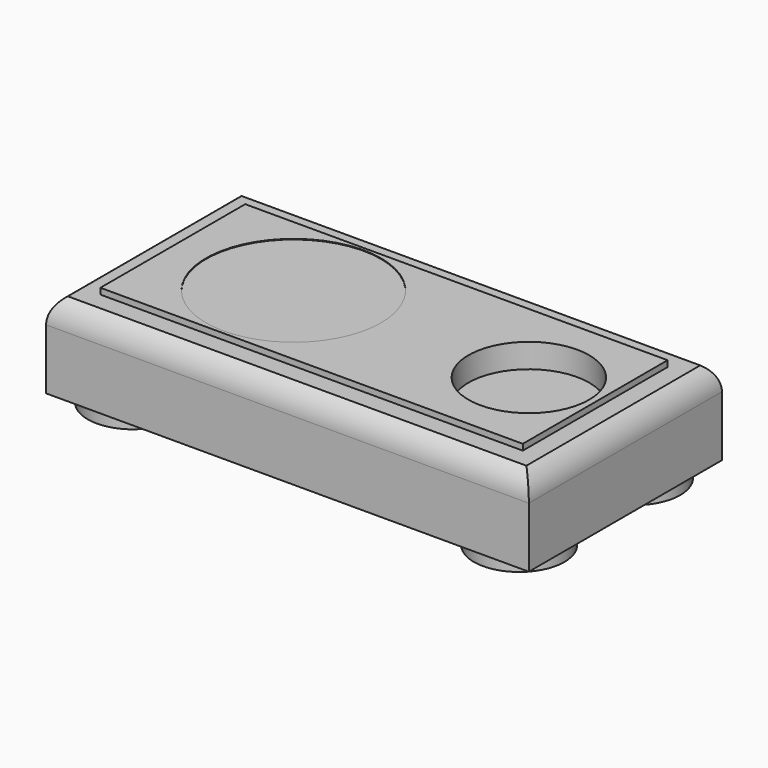
from build123d import *

# Parameters (mm, degrees)
F0_W      = 203.2
F0_H      = 101.6
F1_DEPTH  = 38.1
F2_R      = 19.05
F3_DEPTH  = 5.08
F4_R      = 12.7
F5_W      = 12.7
F5_H      = 2.54
F6_DEPTH  = 203.201
F7_W      = 12.7
F7_H      = 2.54
F8_DEPTH  = 101.601
F9_R      = 25.4
F10_DEPTH = 10.16
F11_R     = 36.83
F12_DEPTH = 0.254


with BuildPart() as f1:
    # F0 (on Top) → F1 (new body)
    with BuildSketch(Plane.XY):
        with Locations((101.6, -50.8)):
            Rectangle(F0_W, F0_H)
    extrude(amount=F1_DEPTH)

    # F4
    f4_edges = [f1.edges().sort_by_distance(p)[0] for p in [
        (101.6, 0, 38.1),
        (0, -50.8, 38.1),
        (101.6, -101.6, 38.1),
        (203.2, -50.8, 38.1),
    ]]
    fillet(f4_edges, radius=F4_R)

    # F5 (on face) → F6 (cut, through all)
    with BuildSketch(Plane.YZ.offset(203.2)):
        with Locations((-6.35, 36.83)):
            Rectangle(F5_W, F5_H)
        with Locations((-95.25, 36.83)):
            Rectangle(F5_W, F5_H)
    extrude(amount=-F6_DEPTH, mode=Mode.SUBTRACT)

    # F7 (on face) → F8 (cut, through all)
    with BuildSketch(Plane.XZ.offset(101.6)):
        with Locations((196.85, 36.83)):
            Rectangle(F7_W, F7_H)
        with Locations((6.35, 36.83)):
            Rectangle(F7_W, F7_H)
    extrude(amount=-F8_DEPTH, mode=Mode.SUBTRACT)

    # F9 (on face) → F10 (cut)
    with BuildSketch(Plane.XY.offset(38.1)):
        with Locations((162.56, -50.8)):
            Circle(F9_R)
    extrude(amount=-F10_DEPTH, mode=Mode.SUBTRACT)

    # F11 (on face) → F12 (cut)
    with BuildSketch(Plane.XY.offset(38.1)):
        with Locations((63.5, -50.8)):
            Circle(F11_R)
    extrude(amount=-F12_DEPTH, mode=Mode.SUBTRACT)


with BuildPart() as f3:
    # F2 (on face) → F3 (new body)
    with BuildSketch(Plane(origin=(0, 0, 0), x_dir=(1, 0, 0), z_dir=(0, 0, -1))):
        with Locations((20.32, 81.28)):
            Circle(F2_R)
        with Locations((20.32, 20.32)):
            Circle(F2_R)
        with Locations((182.88, 81.28)):
            Circle(F2_R)
        with Locations((182.88, 20.32)):
            Circle(F2_R)
    extrude(amount=F3_DEPTH)


solid = Compound([f1.part, f3.part])
